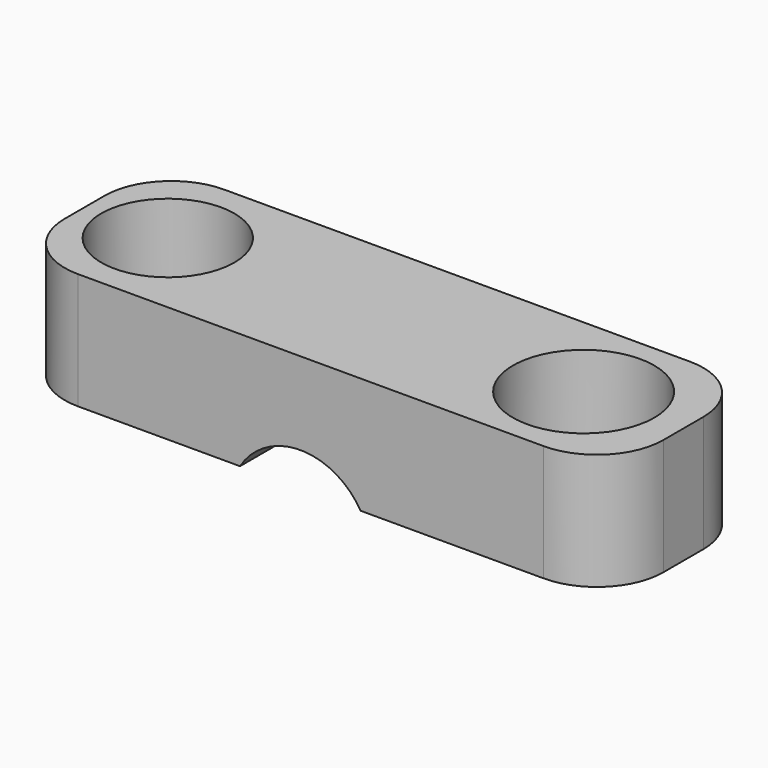
from build123d import *

# Parameters (mm, degrees)
F0_R     = 4.25
F1_DEPTH = 7
F3_DEPTH = 25
F4_R     = 4
F5_DEPTH = 25


with BuildPart() as f1:
    # F0 (on Top) → F1 (new body)
    with BuildSketch(Plane.XY):
        with BuildLine():
            Line((2, 5.5), (-26, 5.5))
            ThreePointArc((-26, 5.5), (-28.828427, 4.328427), (-30, 1.5))
            Line((-30, 1.5), (-30, -1.5))
            ThreePointArc((-30, -1.5), (-28.828427, -4.328427), (-26, -5.5))
            Line((-26, -5.5), (2, -5.5))
            ThreePointArc((2, -5.5), (4.828427, -4.328427), (6, -1.5))
            Line((6, -1.5), (6, 1.5))
            ThreePointArc((6, 1.5), (4.828427, 4.328427), (2, 5.5))
        make_face()
        Circle(F0_R, mode=Mode.SUBTRACT)
    extrude(amount=F1_DEPTH)

    # F2 (on face) → F3 (cut)
    with BuildSketch(Plane.XZ.offset(5.5)):
        with BuildLine():
            Line((-16.256757, 0), (-9, 0))
            ThreePointArc((-9, 0), (-12.628379, 2.037), (-16.256757, 0))
        make_face()
    extrude(amount=-F3_DEPTH, mode=Mode.SUBTRACT)

    # F4 (on face) → F5 (cut)
    with BuildSketch(Plane.XY.offset(7)):
        with Locations((-25, 0)):
            Circle(F4_R)
    extrude(amount=-F5_DEPTH, mode=Mode.SUBTRACT)


solid = f1.part
